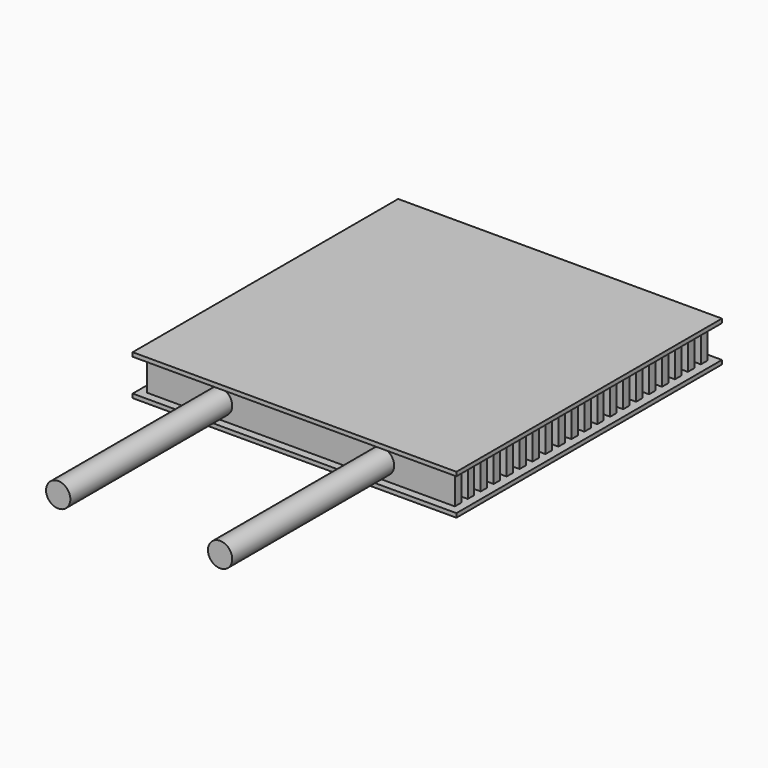
from build123d import *

# Parameters (mm, degrees)
F0_W      = 40
F0_H      = 41
F1_DEPTH  = 5
F2_W      = 1
F2_H      = 4
F3_DEPTH  = 40.001
F4_W      = 40
F4_H      = 4
F5_DEPTH  = 1
F6_W      = 40
F6_H      = 4
F7_DEPTH  = 1
F8_R      = 1.5
F9_DEPTH  = 25
F10_R     = 7.5
F11_DEPTH = 1


with BuildPart() as f1:
    # F0 (on Top) → F1 (new body)
    with BuildSketch(Plane.XY):
        with Locations((20, -20.5)):
            Rectangle(F0_W, F0_H)
    extrude(amount=F1_DEPTH)

    # F2 (on face) → F3 (cut, through all)
    with BuildSketch(Plane(origin=(0, 0, 0), x_dir=(0, -1, 0), z_dir=(-1, 0, 0))):
        with Locations((0.5, 2.5)):
            Rectangle(F2_W, F2_H)
        with Locations((2.5, 2.5)):
            Rectangle(F2_W, F2_H)
        with Locations((4.5, 2.5)):
            Rectangle(F2_W, F2_H)
        with Locations((6.5, 2.5)):
            Rectangle(F2_W, F2_H)
        with Locations((8.5, 2.5)):
            Rectangle(F2_W, F2_H)
        with Locations((10.5, 2.5)):
            Rectangle(F2_W, F2_H)
        with Locations((12.5, 2.5)):
            Rectangle(F2_W, F2_H)
        with Locations((14.5, 2.5)):
            Rectangle(F2_W, F2_H)
        with Locations((16.5, 2.5)):
            Rectangle(F2_W, F2_H)
        with Locations((18.5, 2.5)):
            Rectangle(F2_W, F2_H)
        with Locations((20.5, 2.5)):
            Rectangle(F2_W, F2_H)
        with Locations((22.5, 2.5)):
            Rectangle(F2_W, F2_H)
        with Locations((24.5, 2.5)):
            Rectangle(F2_W, F2_H)
        with Locations((26.5, 2.5)):
            Rectangle(F2_W, F2_H)
        with Locations((28.5, 2.5)):
            Rectangle(F2_W, F2_H)
        with Locations((30.5, 2.5)):
            Rectangle(F2_W, F2_H)
        with Locations((32.5, 2.5)):
            Rectangle(F2_W, F2_H)
        with Locations((34.5, 2.5)):
            Rectangle(F2_W, F2_H)
        with Locations((36.5, 2.5)):
            Rectangle(F2_W, F2_H)
        with Locations((38.5, 2.5)):
            Rectangle(F2_W, F2_H)
        with Locations((40.5, 2.5)):
            Rectangle(F2_W, F2_H)
    extrude(amount=-F3_DEPTH, mode=Mode.SUBTRACT)

    # F4 (on face) → F5 (cut)
    with BuildSketch(Plane(origin=(0, 0, 0), x_dir=(0, -1, 0), z_dir=(-1, 0, 0))):
        with Locations((21, 2.5)):
            Rectangle(F4_W, F4_H)
    extrude(amount=-F5_DEPTH, mode=Mode.SUBTRACT)

    # F6 (on face) → F7 (cut)
    with BuildSketch(Plane.YZ.offset(40)):
        with Locations((-21, 2.5)):
            Rectangle(F6_W, F6_H)
    extrude(amount=-F7_DEPTH, mode=Mode.SUBTRACT)

    # F8 (on face) → F9 (join)
    with BuildSketch(Plane.XZ.offset(40)):
        with Locations((10, 2.5)):
            Circle(F8_R)
        with Locations((30, 2.5)):
            Circle(F8_R)
    extrude(amount=F9_DEPTH)

    # F10 (on face) → F11 (join)
    with BuildSketch(Plane.XY.offset(5)):
        with Locations((20, -20.5)):
            Circle(F10_R)
    extrude(amount=-F11_DEPTH)


solid = f1.part
